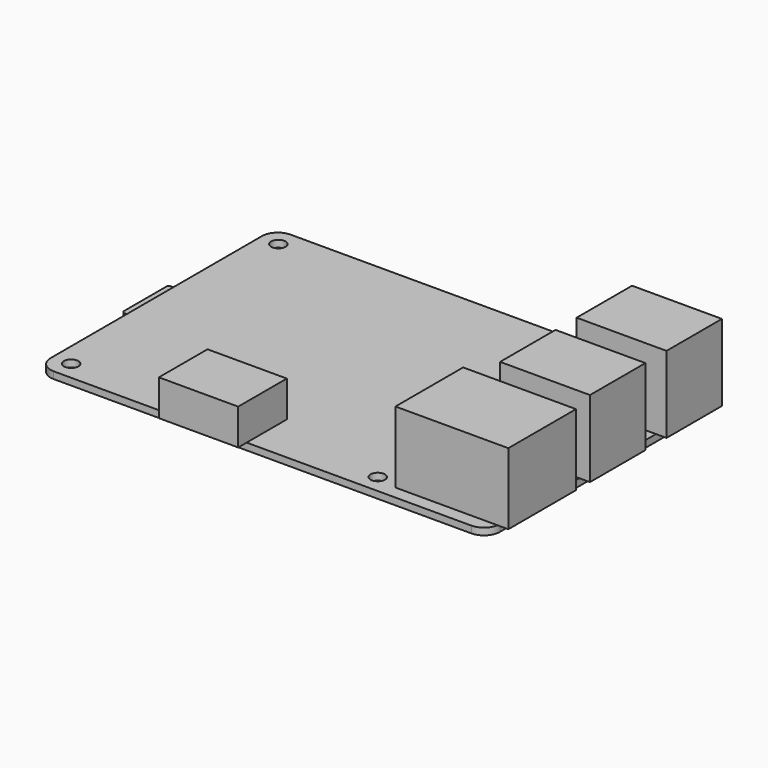
from build123d import *

# Parameters (mm, degrees)
F1_DEPTH  = 1.3
F2_R      = 1.375
F3_DEPTH  = 1.3
F4_W      = 21.35
F4_H      = 16
F5_DEPTH  = 13.5
F6_W      = 17
F6_H      = 13.1
F7_DEPTH  = 14.5
F8_W      = 15
F8_H      = 11.5
F9_DEPTH  = 6.8
F11_DEPTH = 1


with BuildPart() as f1:
    # F0 (on Top) → F1 (new body)
    with BuildSketch(Plane.XY):
        with BuildLine():
            Line((39.5, 28), (-39.5, 28))
            ThreePointArc((-39.5, 28), (-41.62132, 27.12132), (-42.5, 25))
            Line((-42.5, 25), (-42.5, -25))
            ThreePointArc((-42.5, -25), (-41.62132, -27.12132), (-39.5, -28))
            Line((-39.5, -28), (39.5, -28))
            ThreePointArc((39.5, -28), (41.62132, -27.12132), (42.5, -25))
            Line((42.5, -25), (42.5, 25))
            ThreePointArc((42.5, 25), (41.62132, 27.12132), (39.5, 28))
        make_face()
    extrude(amount=F1_DEPTH)

    # F2 (on face) → F3 (cut, through all)
    with BuildSketch(Plane.XY.offset(1.3)):
        with Locations((-39, 24.5)):
            Circle(F2_R)
        with Locations((19, 24.5)):
            Circle(F2_R)
        with Locations((-39, -24.5)):
            Circle(F2_R)
        with Locations((19, -24.5)):
            Circle(F2_R)
    extrude(amount=-F3_DEPTH, mode=Mode.SUBTRACT)


with BuildPart() as f5:
    # F4 (on face) → F5 (new body)
    with BuildSketch(Plane.XY.offset(1.3)):
        with Locations((33.825, -17.5)):
            Rectangle(F4_W, F4_H)
    extrude(amount=F5_DEPTH)


with BuildPart() as f7:
    # F6 (on face) → F7 (new body)
    with BuildSketch(Plane.XY.offset(1.3)):
        with Locations((36, 0.35)):
            Rectangle(F6_W, F6_H)
        with Locations((36, 18.45)):
            Rectangle(F6_W, F6_H)
    extrude(amount=F7_DEPTH)


with BuildPart() as f9:
    # F8 (on face) → F9 (new body)
    with BuildSketch(Plane.XY.offset(1.3)):
        with Locations((-10.5, -24.25)):
            Rectangle(F8_W, F8_H)
    extrude(amount=F9_DEPTH)


with BuildPart() as f11:
    # F10 (on face) → F11 (new body)
    with BuildSketch(Plane(origin=(0, 0, 0), x_dir=(1, 0, 0), z_dir=(0, 0, -1))):
        with BuildLine():
            ThreePointArc((-44.5, 5), (-44.853553, 4.853553), (-45, 4.5))
            Line((-45, 4.5), (-45, -5.5))
            ThreePointArc((-45, -5.5), (-44.853553, -5.853553), (-44.5, -6))
            Line((-44.5, -6), (-40, -6))
            Line((-40, -6), (-39.1, -5.3))
            Line((-39.1, -5.3), (-37.9, -5.3))
            Line((-37.9, -5.3), (-37.9, -6))
            Line((-37.9, -6), (-36.4, -6))
            Line((-36.4, -6), (-35, -4.7))
            Line((-35, -4.7), (-30.5, -4.7))
            ThreePointArc((-30.5, -4.7), (-30.146447, -4.553553), (-30, -4.2))
            Line((-30, -4.2), (-30, 4.5))
            ThreePointArc((-30, 4.5), (-30.146447, 4.853553), (-30.5, 5))
            Line((-30.5, 5), (-44.5, 5))
        make_face()
    extrude(amount=F11_DEPTH)


solid = Compound([f1.part, f5.part, f7.part, f9.part, f11.part])
